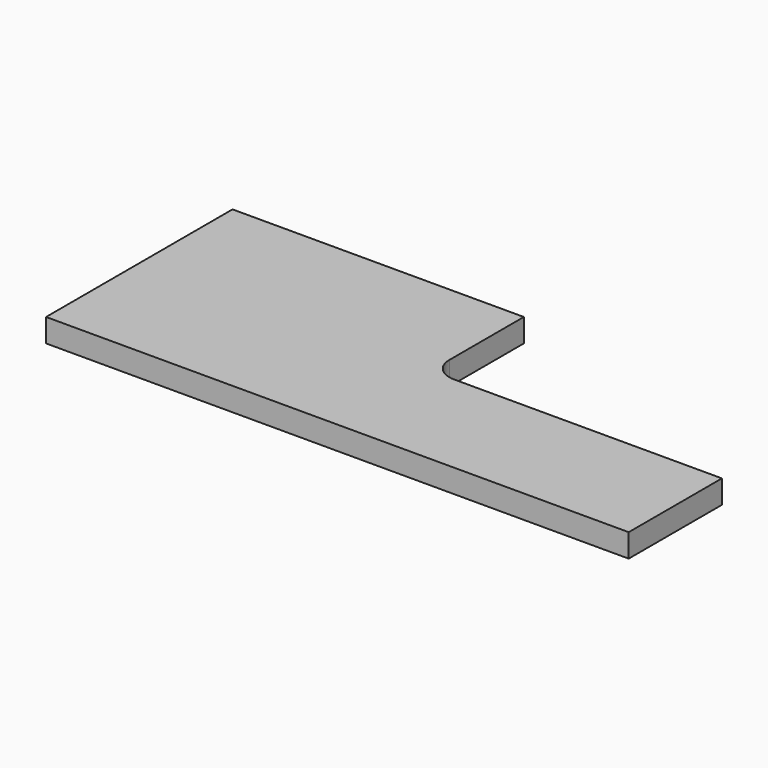
from build123d import *

# Parameters (mm, degrees)
PAD_DEPTH = 2


with BuildPart() as part:
    # Sketch → Pad (new body)
    with BuildSketch(Plane.XY):
        with BuildLine():
            Line((0, 0), (50, 0))
            Line((50, 0), (50, 10))
            Line((50, 10), (27, 10))
            ThreePointArc((25, 12), (25.585786, 10.585786), (27, 10))
            Line((25, 12), (25, 20))
            Line((25, 20), (0, 20))
            Line((0, 20), (0, 0))
        make_face()
    extrude(amount=PAD_DEPTH)


solid = part.part
